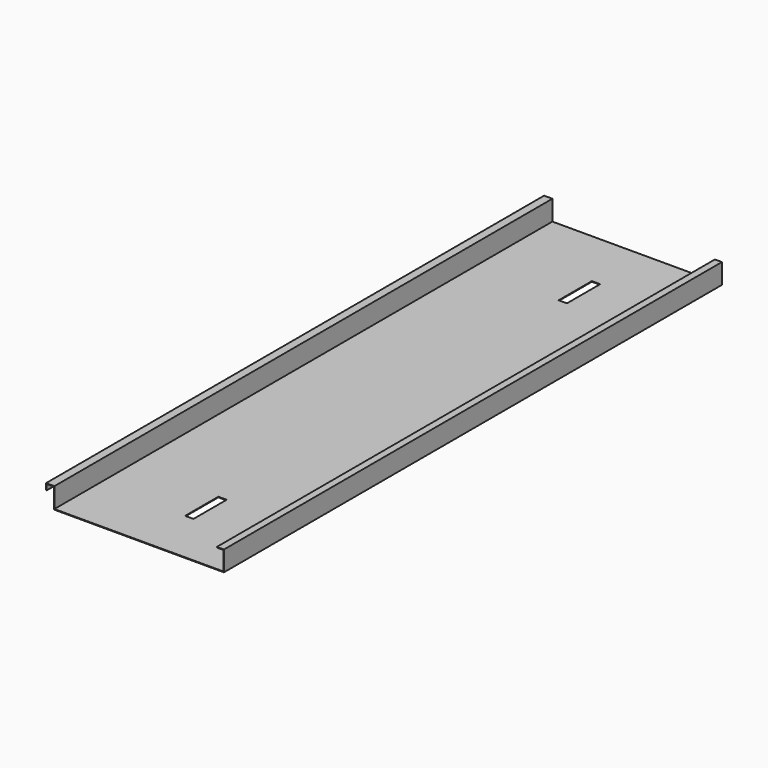
from build123d import *

# Parameters (mm, degrees)
F1_DEPTH = 1500
F2_W     = 20
F2_H     = 100
F3_DEPTH = 1.5


with BuildPart() as f1:
    # F0 (on Front) → F1 (new body)
    with BuildSketch(Plane.XZ):
        Polygon((9.56153, 65.133369), (9.56153, 16.633369), (419.56153, 16.633369), (419.56153, 65.133369), (402.56153, 65.133369), (402.56153, 63.633369), (418.06153, 63.633369), (418.06153, 18.133369), (11.06153, 18.133369), (11.06153, 66.633369), (-8.93847, 66.633369), (-8.93847, 51.633369), (-7.43847, 51.633369), (-7.43847, 65.133369), align=None)
    extrude(amount=-F1_DEPTH)

    # F2 (on face) → F3 (cut, through all)
    with BuildSketch(Plane.XY.offset(18.133369)):
        with Locations((230.56153, 182)):
            Rectangle(F2_W, F2_H)
        with Locations((230.56153, 1307)):
            Rectangle(F2_W, F2_H)
    extrude(amount=-F3_DEPTH, mode=Mode.SUBTRACT)


solid = f1.part
